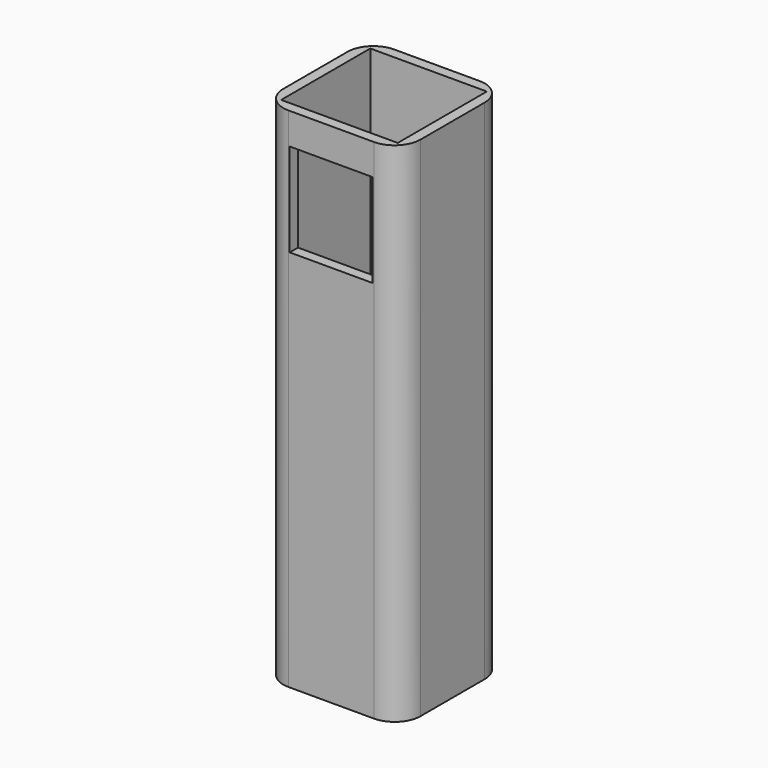
from build123d import *

# Parameters (mm, degrees)
F0_W     = 26.5
F0_H     = 25.5
F1_DEPTH = 98
F2_T     = -2
F4_D     = 18
F5_W     = 16
F5_H     = 18
F6_DEPTH = 2
F7_R     = 5


with BuildPart() as f1:
    # F0 (on Top) → F1 (new body)
    with BuildSketch(Plane.XY):
        Rectangle(F0_W, F0_H)
    extrude(amount=-F1_DEPTH)

    # F2
    f2_openings = [f1.faces().sort_by_distance(p)[0] for p in [
        (0, 0, 0),
    ]]
    offset(amount=F2_T, openings=f2_openings)

    # F4 (through all)
    with Locations(Plane.XY):
        with Locations((0, 0)):
            Hole(F4_D / 2)

    # F5 (on face) → F6 (cut)
    with BuildSketch(Plane.XZ.offset(12.75)):
        with Locations((0, -15.051324)):
            Rectangle(F5_W, F5_H)
    extrude(amount=-F6_DEPTH, mode=Mode.SUBTRACT)

    # F7
    f7_edges = [f1.edges().sort_by_distance(p)[0] for p in [
        (13.25, -12.75, -49),
        (13.25, 12.75, -49),
        (-13.25, -12.75, -49),
        (-13.25, 12.75, -49),
    ]]
    fillet(f7_edges, radius=F7_R)


solid = f1.part
